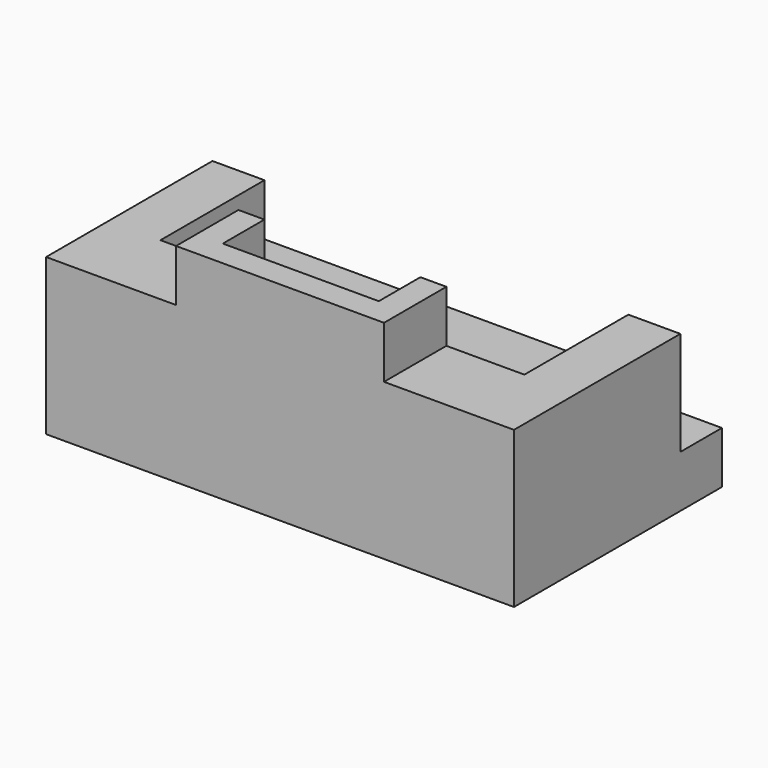
from build123d import *

# Parameters (mm, degrees)
F0_W     = 114.3
F0_H     = 63.5
F1_DEPTH = 12.7
F4_DEPTH = 12.7
F5_DEPTH = 25.4
F6_DEPTH = 38.1


with BuildPart() as f1:
    # F0 (on Top) → F1 (new body)
    with BuildSketch(Plane.XY):
        with Locations((57.15, 31.75)):
            Rectangle(F0_W, F0_H)
    extrude(amount=F1_DEPTH)

    # F3 (on offset) → F4 (join)
    with BuildSketch(Plane.XY.offset(12.7)):
        Polygon((12.7, 19.05), (31.75, 19.05), (38.1, 19.05), (38.1, 6.35), (76.2, 6.35), (76.2, 19.05), (82.55, 19.05), (101.6, 19.05), (101.6, 50.8), (12.7, 50.8), align=None)
    extrude(amount=F4_DEPTH)

    # F3 (on offset) → F5 (join)
    with BuildSketch(Plane.XY.offset(12.7)):
        Polygon((0, 50.8), (0, 0), (31.75, 0), (31.75, 19.05), (12.7, 19.05), (12.7, 50.8), align=None)
        Polygon((82.55, 19.05), (82.55, 0), (114.3, 0), (114.3, 50.8), (101.6, 50.8), (101.6, 19.05), align=None)
    extrude(amount=F5_DEPTH)

    # F3 (on offset) → F6 (join)
    with BuildSketch(Plane.XY.offset(12.7)):
        Polygon((31.75, 19.05), (31.75, 0), (82.55, 0), (82.55, 19.05), (76.2, 19.05), (76.2, 6.35), (38.1, 6.35), (38.1, 19.05), align=None)
    extrude(amount=F6_DEPTH)


solid = f1.part
